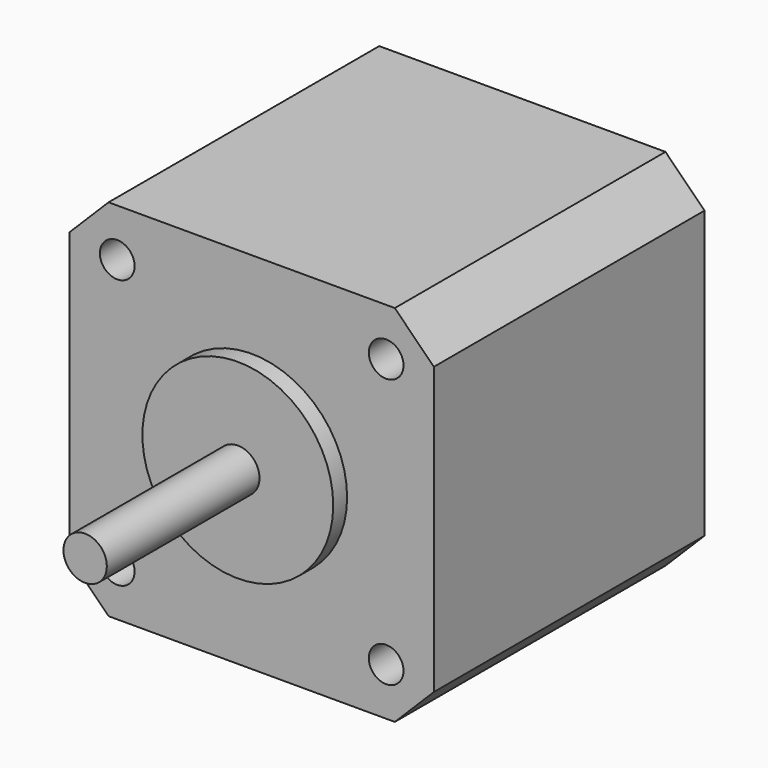
from build123d import *

# Parameters (mm, degrees)
F0_R     = 2.5
F3_DEPTH = 24
F1_R     = 11
F4_DEPTH = 2
F5_DEPTH = 39
F7_D     = 4


with BuildPart() as f3:
    # F0 (on Front) → F3 (new body)
    with BuildSketch(Plane.XZ):
        Circle(F0_R)
    extrude(amount=F3_DEPTH)

    # F1 (on Front) → F4 (join)
    with BuildSketch(Plane.XZ):
        Circle(F1_R)
    extrude(amount=F4_DEPTH)

    # F2 (on Front) → F5 (join)
    with BuildSketch(Plane.XZ):
        Polygon((21, 16.5), (16.5, 21), (-16.5, 21), (-21, 16.5), (-21, -16.5), (-16.5, -21), (16.5, -21), (21, -16.5), align=None)
    extrude(amount=-F5_DEPTH)

    # F7 (through all)
    with Locations(Plane.XZ):
        with Locations((-15.5, 15.5), (15.5, 15.5), (15.5, -15.5), (-15.5, -15.5)):
            Hole(F7_D / 2)


solid = f3.part
